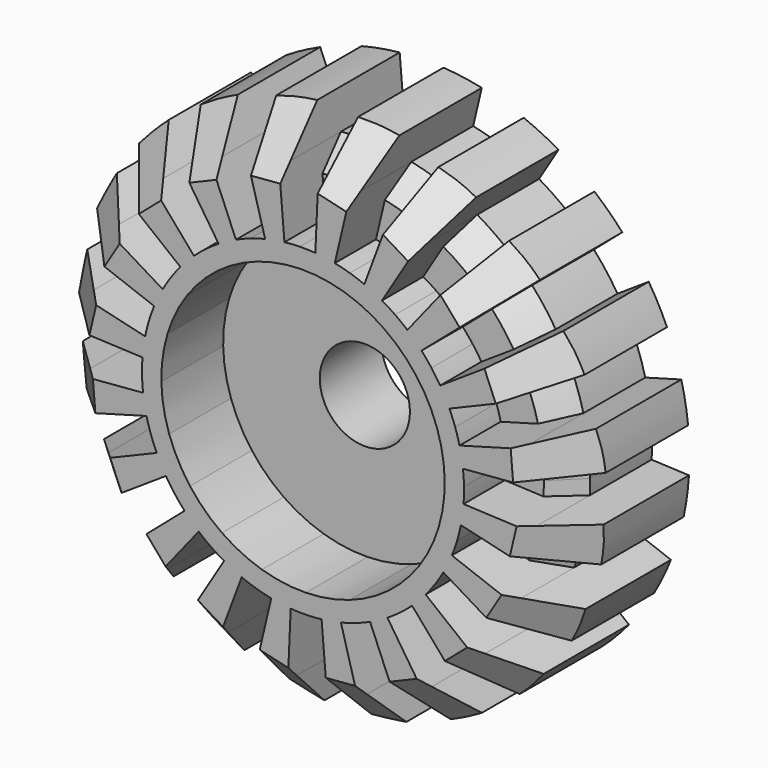
from build123d import *

# Parameters (mm, degrees)
F1_DEPTH = 6
F3_DEPTH = 1.8834712553
F4_COUNT = 20
F5_DEPTH = 3
F6_DEPTH = 4
F7_SIZE  = 1


with BuildPart() as f1:
    # F0 (on Front) → F1 (new body)
    with BuildSketch(Plane.XZ):
        with BuildLine():
            Line((-0.1067910116, 5.4989631459), (-0.1213534223, 6.2488217567))
            ThreePointArc((-0.1213534223, 6.2488217567), (-0.4218418909, 6.2357477033), (-0.7213534223, 6.2082323765))
            ThreePointArc((-0.7213534223, 6.2082323765), (-1.0980662448, 6.1527839652), (-1.4707034086, 6.0744984553))
            ThreePointArc((-1.4707034086, 6.0744984553), (-1.7605841071, 5.9969028341), (-2.0464060807, 5.9054823811))
            Line((-2.0464060807, 5.9054823811), (-1.800837351, 5.1968244953))
            ThreePointArc((-1.800837351, 5.1968244953), (-0.9657035951, 5.4145559898), (-0.1067910116, 5.4989631459))
        make_face()
        with BuildLine():
            Line((-0.7213534223, 6.2082323765), (-0.9277588669, 8.7006760361))
            ThreePointArc((-0.9277588669, 8.7006760361), (-1.5369549959, 8.6139578209), (-2.1385501114, 8.4846392629))
            Line((-2.1385501114, 8.4846392629), (-1.4707034086, 6.0744984553))
            ThreePointArc((-1.4707034086, 6.0744984553), (-1.0980662448, 6.1527839652), (-0.7213534223, 6.2082323765))
        make_face()
        with BuildLine():
            Line((-0.9277588669, 8.7006760361), (-1.0476623016, 10.1485668915))
            ThreePointArc((-1.0476623016, 10.1485668915), (-1.7919494281, 10.0438998152), (-2.5265113586, 9.8847228896))
            Line((-2.5265113586, 9.8847228896), (-2.1385501114, 8.4846392629))
            ThreePointArc((-2.1385501114, 8.4846392629), (-1.5369549959, 8.6139578209), (-0.9277588669, 8.7006760361))
        make_face()
    extrude(amount=F1_DEPTH)

    # F2 (on face) → F3 (cut, through all)
    with BuildSketch(Plane(origin=(-0.2058227796, 0, -0.0170446951), x_dir=(0, 1, 0), z_dir=(0.9965885828, 0, 0.0825299736))):
        Polygon((-6, 10.2004094384), (-6, 8.2004094384), (-4, 10.2004094384), align=None)
    extrude(amount=-F3_DEPTH, mode=Mode.SUBTRACT)

    # F4: F1 ×20 about axis
    f4_axis = Axis((0, 0, 0), (0, -1, 0))


with BuildPart() as f1_1:
    add(f1.part)
    for i in range(1, F4_COUNT):
        add(f1.part.rotate(f4_axis, i * 360 / F4_COUNT))

    # F0 (on Front) → F5 (join)
    with BuildSketch(Plane.XZ):
        with BuildLine():
            ThreePointArc((5.5, 0), (3.8511458967, 3.9266621044), (-0.1067910116, 5.4989631459))
            Line((-0.1067910116, 5.4989631459), (-0.0339789582, 1.7496700919))
            ThreePointArc((-0.0339789582, 1.7496700919), (1.2253646035, 1.2493924878), (1.75, 0))
            ThreePointArc((1.75, 0), (-1.0148302864, -1.4256996492), (-0.5729937026, 1.6535350667))
            Line((-0.5729937026, 1.6535350667), (-1.800837351, 5.1968244953))
            ThreePointArc((-1.800837351, 5.1968244953), (-3.1894666145, -4.4807703261), (5.5, 0))
        make_face()
        with BuildLine():
            Line((-0.0339789582, 1.7496700919), (-0.1067910116, 5.4989631459))
            ThreePointArc((-0.1067910116, 5.4989631459), (-0.9657035951, 5.4145559898), (-1.800837351, 5.1968244953))
            Line((-1.800837351, 5.1968244953), (-0.5729937026, 1.6535350667))
            ThreePointArc((-0.5729937026, 1.6535350667), (-0.3072693257, 1.7228132695), (-0.0339789582, 1.7496700919))
        make_face()
    extrude(amount=F5_DEPTH)

    # F0 (on Front) → F6 (join)
    with BuildSketch(Plane.XZ):
        with BuildLine():
            ThreePointArc((8.75, 0), (6.1268230176, 6.2469624388), (-0.1698947912, 8.7483504594))
            Line((-0.1698947912, 8.7483504594), (-0.1213534223, 6.2488217567))
            ThreePointArc((-0.1213534223, 6.2488217567), (4.3763021554, 4.4621160277), (6.25, 0))
            ThreePointArc((6.25, 0), (-3.6243938801, -5.0917844615), (-2.0464060807, 5.9054823811))
            Line((-2.0464060807, 5.9054823811), (-2.864968513, 8.2676753335))
            ThreePointArc((-2.864968513, 8.2676753335), (-5.0741514321, -7.1284982461), (8.75, 0))
        make_face()
        with BuildLine():
            ThreePointArc((-2.1385501114, 8.4846392629), (-2.5041102198, 8.3840283878), (-2.864968513, 8.2676753335))
            Line((-2.864968513, 8.2676753335), (-2.0464060807, 5.9054823811))
            ThreePointArc((-2.0464060807, 5.9054823811), (-1.7605841071, 5.9969028341), (-1.4707034086, 6.0744984553))
            Line((-1.4707034086, 6.0744984553), (-2.1385501114, 8.4846392629))
        make_face()
        with BuildLine():
            Line((-0.1213534223, 6.2488217567), (-0.1698947912, 8.7483504594))
            ThreePointArc((-0.1698947912, 8.7483504594), (-0.5493442463, 8.7327384536), (-0.9277588669, 8.7006760361))
            Line((-0.9277588669, 8.7006760361), (-0.7213534223, 6.2082323765))
            ThreePointArc((-0.7213534223, 6.2082323765), (-0.4218418909, 6.2357477033), (-0.1213534223, 6.2488217567))
        make_face()
    extrude(amount=F6_DEPTH)

    # F7
    f7_edges = [f1_1.edges().sort_by_distance(p)[0] for p in [
        (-7.177779, -4, 5.004197),
        (-5.280092, -4, 6.97733),
        (-2.865552, -4, 8.267473),
        (-0.170513, -4, 8.748338),
        (2.541218, -4, 8.372856),
        (5.004197, -4, 7.177779),
        (6.97733, -4, 5.280092),
        (8.267473, -4, 2.865552),
        (8.748338, -4, 0.170513),
        (8.372856, -4, -2.541218),
        (7.177779, -4, -5.004197),
        (5.280092, -4, -6.97733),
        (2.865552, -4, -8.267473),
        (-8.372856, -4, 2.541218),
        (-8.748338, -4, -0.170513),
        (-8.267473, -4, -2.865552),
        (-6.97733, -4, -5.280092),
        (-5.004197, -4, -7.177779),
        (-2.541218, -4, -8.372856),
        (0.170513, -4, -8.748338),
    ]]
    chamfer(f7_edges, length=F7_SIZE)


solid = f1_1.part
